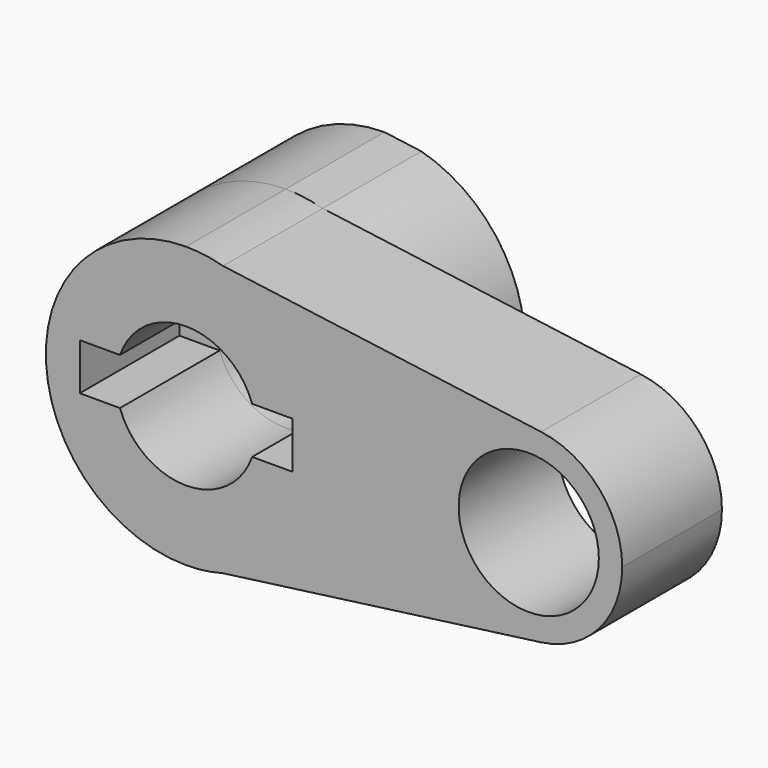
from build123d import *

# Parameters (mm, degrees)
F0_R     = 14.2875
F1_DEPTH = 25.4
F2_DEPTH = 25.146


with BuildPart() as f1:
    # F0 (on Front) → F1 (new body)
    with BuildSketch(Plane.XZ):
        with BuildLine():
            ThreePointArc((7.5208737148, 27.5675004954), (3.7940280931, 28.322005152), (0, 28.575))
            Line((0, 28.575), (7.5208737148, 27.5675004954))
        make_face()
        with BuildLine():
            Line((7.5208737148, -27.5675004954), (0, -28.575))
            ThreePointArc((0, -28.575), (3.7940280931, -28.322005152), (7.5208737148, -27.5675004954))
        make_face()
        with BuildLine():
            Line((72.3621368264, 18.881336768), (7.5208737148, 27.5675004954))
            ThreePointArc((7.5208737148, 27.5675004954), (22.7094648924, 17.3438989071), (28.575, 0))
            ThreePointArc((28.575, 0), (22.7094648924, -17.3438989071), (7.5208737148, -27.5675004954))
            Line((7.5208737148, -27.5675004954), (72.3621368264, -18.881336768))
            ThreePointArc((72.3621368264, -18.881336768), (50.7827847643, 0), (72.3621368264, 18.881336768))
        make_face()
        with BuildLine():
            ThreePointArc((88.8827847643, 0), (84.1695671227, 12.5442884058), (72.3621368264, 18.881336768))
            ThreePointArc((72.3621368264, 18.881336768), (50.7827847643, 0), (72.3621368264, -18.881336768))
            ThreePointArc((72.3621368264, -18.881336768), (84.1695671227, -12.5442884058), (88.8827847643, 0))
        make_face()
        with Locations((69.8327847643, 0)):
            Circle(F0_R, mode=Mode.SUBTRACT)
        with BuildLine():
            Line((7.5208737148, 27.5675004954), (0, 28.575))
            ThreePointArc((0, 28.575), (-28.575, 0), (0, -28.575))
            Line((0, -28.575), (7.5208737148, -27.5675004954))
            ThreePointArc((7.5208737148, -27.5675004954), (22.7094648924, -17.3438989071), (28.575, 0))
            ThreePointArc((28.575, 0), (22.7094648924, 17.3438989071), (7.5208737148, 27.5675004954))
        make_face()
        with BuildLine():
            ThreePointArc((-13.4703841816, 4.7625), (0, 14.2875), (13.4703841816, 4.7625))
            Line((13.4703841816, 4.7625), (21.6587726027, 4.7625))
            Line((21.6587726027, 4.7625), (21.6587726027, -4.7625))
            Line((21.6587726027, -4.7625), (13.4703841816, -4.7625))
            ThreePointArc((13.4703841816, -4.7625), (0, -14.2875), (-13.4703841816, -4.7625))
            Line((-13.4703841816, -4.7625), (-21.6587726027, -4.7625))
            Line((-21.6587726027, -4.7625), (-21.6587726027, 4.7625))
            Line((-21.6587726027, 4.7625), (-13.4703841816, 4.7625))
        make_face(mode=Mode.SUBTRACT)
    extrude(amount=F1_DEPTH)

    # F0 (on Front) → F2 (join)
    with BuildSketch(Plane.XZ):
        with BuildLine():
            Line((7.5208737148, 27.5675004954), (0, 28.575))
            ThreePointArc((0, 28.575), (-28.575, 0), (0, -28.575))
            Line((0, -28.575), (7.5208737148, -27.5675004954))
            ThreePointArc((7.5208737148, -27.5675004954), (22.7094648924, -17.3438989071), (28.575, 0))
            ThreePointArc((28.575, 0), (22.7094648924, 17.3438989071), (7.5208737148, 27.5675004954))
        make_face()
        with BuildLine():
            ThreePointArc((-13.4703841816, 4.7625), (0, 14.2875), (13.4703841816, 4.7625))
            Line((13.4703841816, 4.7625), (21.6587726027, 4.7625))
            Line((21.6587726027, 4.7625), (21.6587726027, -4.7625))
            Line((21.6587726027, -4.7625), (13.4703841816, -4.7625))
            ThreePointArc((13.4703841816, -4.7625), (0, -14.2875), (-13.4703841816, -4.7625))
            Line((-13.4703841816, -4.7625), (-21.6587726027, -4.7625))
            Line((-21.6587726027, -4.7625), (-21.6587726027, 4.7625))
            Line((-21.6587726027, 4.7625), (-13.4703841816, 4.7625))
        make_face(mode=Mode.SUBTRACT)
        with BuildLine():
            ThreePointArc((-13.4703841816, -4.7625), (-14.2875, 0), (-13.4703841816, 4.7625))
            Line((-13.4703841816, 4.7625), (-21.6587726027, 4.7625))
            Line((-21.6587726027, 4.7625), (-21.6587726027, -4.7625))
            Line((-21.6587726027, -4.7625), (-13.4703841816, -4.7625))
        make_face()
    extrude(amount=-F2_DEPTH)


solid = f1.part
